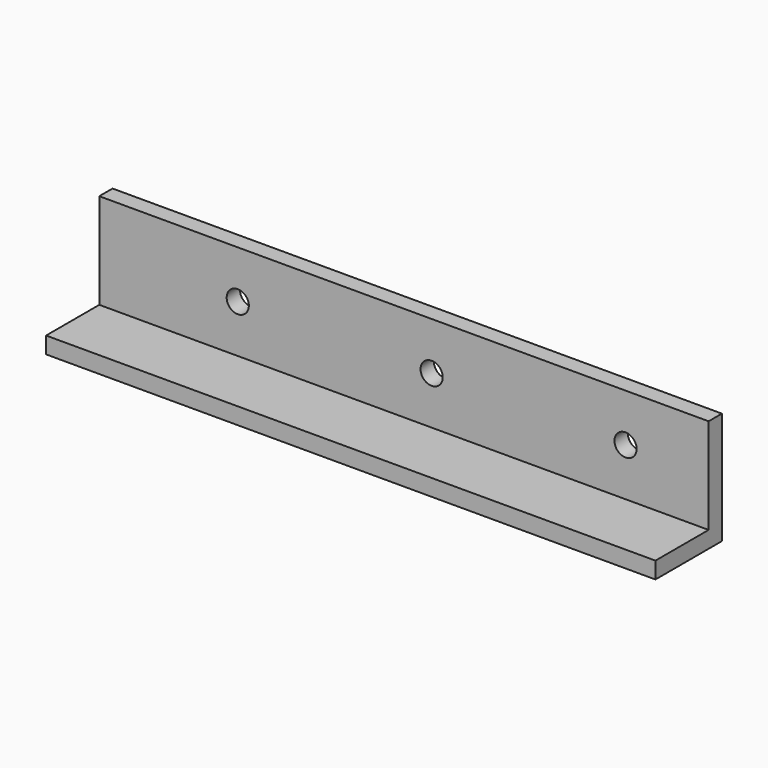
from build123d import *

# Parameters (mm, degrees)
F0_W     = 30
F0_H     = 172.650129
F1_DEPTH = 1100
F2_R     = 20
F3_DEPTH = 30.001


with BuildPart() as f1:
    # F0 (on Right) → F1 (new body)
    with BuildSketch(Plane.YZ):
        Polygon((0, -30), (0, 0), (-30, 0), (-150, 0), (-150, -30), align=None)
        with Locations((-15, 86.325064)):
            Rectangle(F0_W, F0_H)
    extrude(amount=F1_DEPTH)

    # F2 (on face) → F3 (cut, through all)
    with BuildSketch(Plane.XZ.offset(30)):
        with Locations((250, 86.325064)):
            Circle(F2_R)
        with Locations((600, 86.325064)):
            Circle(F2_R)
        with Locations((950, 86.325064)):
            Circle(F2_R)
        with Locations((1300, 86.325064)):
            Circle(F2_R)
    extrude(amount=-F3_DEPTH, mode=Mode.SUBTRACT)


solid = f1.part
